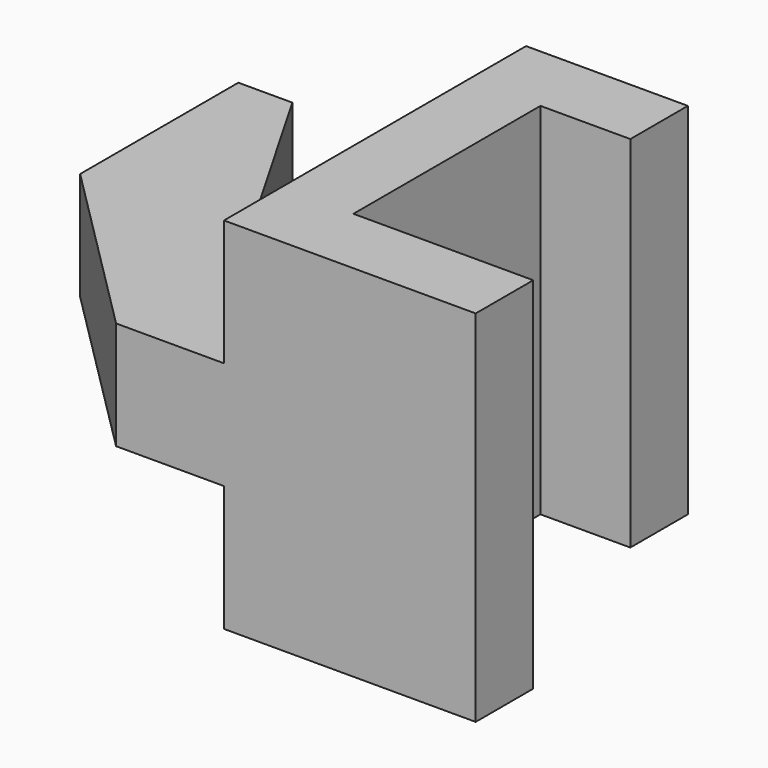
from build123d import *

# Parameters (mm, degrees)
PAD_DEPTH    = 20
SKETCH001_W  = 21
SKETCH001_H  = 6.011268
PAD001_DEPTH = 16
POCKET_DEPTH = 13.006634
CHAMFER_SIZE = 10


with BuildPart() as part:
    # Sketch → Pad (new body)
    with BuildSketch(Plane.XY):
        Polygon((4.5, 6.5), (4.5, 10.5), (-4.5, 10.5), (-4.5, -10.5), (9.5, -10.5), (9.5, -6.5), (-0.5, -6.5), (-0.5, 6.5), align=None)
    extrude(amount=PAD_DEPTH)

    # Sketch001 (on Face3 of Pad) → Pad001 (join)
    with BuildSketch(Plane(origin=(-4.5, 0, 0), x_dir=(0, -1, 0), z_dir=(-1, 0, 0))):
        with Locations((0, 10)):
            Rectangle(SKETCH001_W, SKETCH001_H)
    extrude(amount=PAD001_DEPTH)

    # Sketch002 (on Face13 of Pad001) → Pocket (cut, through all)
    with BuildSketch(Plane(origin=(0, 0, 6.994366), x_dir=(1, 0, 0), z_dir=(0, 0, -1))):
        Polygon((-17.5, -10.5), (-12.5, -1.839746), (-7.5, -10.5), (-7.5, -16.27), (-17.5, -16.27), align=None)
    extrude(amount=-POCKET_DEPTH, mode=Mode.SUBTRACT)

    # Chamfer
    chamfer_edges = [part.edges().sort_by_distance(p)[0] for p in [
        (-20.5, -10.5, 10),
    ]]
    chamfer(chamfer_edges, length=CHAMFER_SIZE)


solid = part.part
